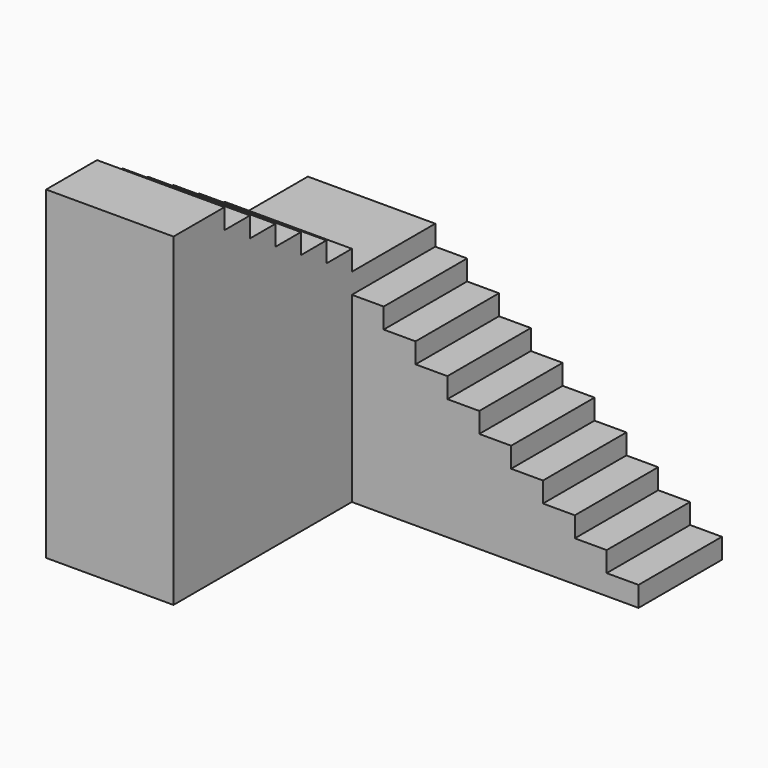
from build123d import *

# Parameters (mm, degrees)
F0_W      = 279.4
F0_H      = 914.4
F1_DEPTH  = 177.8
F2_DEPTH  = 355.6
F3_DEPTH  = 533.4
F4_DEPTH  = 711.2
F5_DEPTH  = 889
F6_DEPTH  = 1066.8
F7_DEPTH  = 1244.6
F8_DEPTH  = 1422.4
F9_DEPTH  = 1600.2
F0_W_2    = 1117.6
F10_DEPTH = 1778
F0_H_2    = 279.4
F11_DEPTH = 1955.8
F12_DEPTH = 2133.6
F13_DEPTH = 2311.4
F14_DEPTH = 2489.2
F15_DEPTH = 2667
F0_H_3    = 558.8
F16_DEPTH = 2844.8


with BuildPart() as f1:
    # F0 (on Top) → F1 (new body)
    with BuildSketch(Plane.XY):
        with Locations((-139.7, 457.2)):
            Rectangle(F0_W, F0_H)
    extrude(amount=F1_DEPTH)

    # F0 (on Top) → F2 (join)
    with BuildSketch(Plane.XY):
        with Locations((-419.1, 457.2)):
            Rectangle(F0_W, F0_H)
    extrude(amount=F2_DEPTH)

    # F0 (on Top) → F3 (join)
    with BuildSketch(Plane.XY):
        with Locations((-698.5, 457.2)):
            Rectangle(F0_W, F0_H)
    extrude(amount=F3_DEPTH)

    # F0 (on Top) → F4 (join)
    with BuildSketch(Plane.XY):
        with Locations((-977.9, 457.2)):
            Rectangle(F0_W, F0_H)
    extrude(amount=F4_DEPTH)

    # F0 (on Top) → F5 (join)
    with BuildSketch(Plane.XY):
        with Locations((-1257.3, 457.2)):
            Rectangle(F0_W, F0_H)
    extrude(amount=F5_DEPTH)

    # F0 (on Top) → F6 (join)
    with BuildSketch(Plane.XY):
        with Locations((-1536.7, 457.2)):
            Rectangle(F0_W, F0_H)
    extrude(amount=F6_DEPTH)

    # F0 (on Top) → F7 (join)
    with BuildSketch(Plane.XY):
        with Locations((-1816.1, 457.2)):
            Rectangle(F0_W, F0_H)
    extrude(amount=F7_DEPTH)

    # F0 (on Top) → F8 (join)
    with BuildSketch(Plane.XY):
        with Locations((-2095.5, 457.2)):
            Rectangle(F0_W, F0_H)
    extrude(amount=F8_DEPTH)

    # F0 (on Top) → F9 (join)
    with BuildSketch(Plane.XY):
        with Locations((-2374.9, 457.2)):
            Rectangle(F0_W, F0_H)
    extrude(amount=F9_DEPTH)

    # F0 (on Top) → F10 (join)
    with BuildSketch(Plane.XY):
        with Locations((-3073.4, 457.2)):
            Rectangle(F0_W_2, F0_H)
    extrude(amount=F10_DEPTH)

    # F0 (on Top) → F11 (join)
    with BuildSketch(Plane.XY):
        with Locations((-3073.4, -139.7)):
            Rectangle(F0_W_2, F0_H_2)
    extrude(amount=F11_DEPTH)

    # F0 (on Top) → F12 (join)
    with BuildSketch(Plane.XY):
        with Locations((-3073.4, -419.1)):
            Rectangle(F0_W_2, F0_H_2)
    extrude(amount=F12_DEPTH)

    # F0 (on Top) → F13 (join)
    with BuildSketch(Plane.XY):
        with Locations((-3073.4, -698.5)):
            Rectangle(F0_W_2, F0_H_2)
    extrude(amount=F13_DEPTH)

    # F0 (on Top) → F14 (join)
    with BuildSketch(Plane.XY):
        with Locations((-3073.4, -977.9)):
            Rectangle(F0_W_2, F0_H_2)
    extrude(amount=F14_DEPTH)

    # F0 (on Top) → F15 (join)
    with BuildSketch(Plane.XY):
        with Locations((-3073.4, -1257.3)):
            Rectangle(F0_W_2, F0_H_2)
    extrude(amount=F15_DEPTH)

    # F0 (on Top) → F16 (join)
    with BuildSketch(Plane.XY):
        with Locations((-3073.4, -1676.4)):
            Rectangle(F0_W_2, F0_H_3)
    extrude(amount=F16_DEPTH)


solid = f1.part
